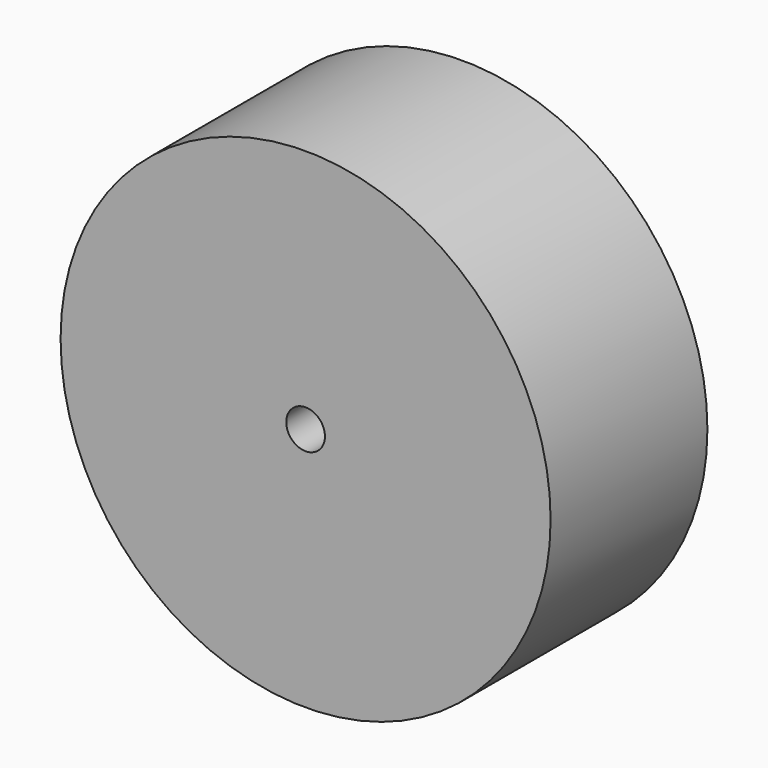
from build123d import *

# Parameters (mm, degrees)
F1_R     = 25
F2_DEPTH = 10
F3_R     = 1.975
F4_DEPTH = 50


with BuildPart() as f2:
    # F1 (on offset) → F2 (new body, symmetric)
    with BuildSketch(Plane.XZ):
        Circle(F1_R)
    extrude(amount=F2_DEPTH, both=True)

    # F3 (on Front) → F4 (cut, symmetric)
    with BuildSketch(Plane.XZ):
        Circle(F3_R)
    extrude(amount=F4_DEPTH, both=True, mode=Mode.SUBTRACT)


solid = f2.part
